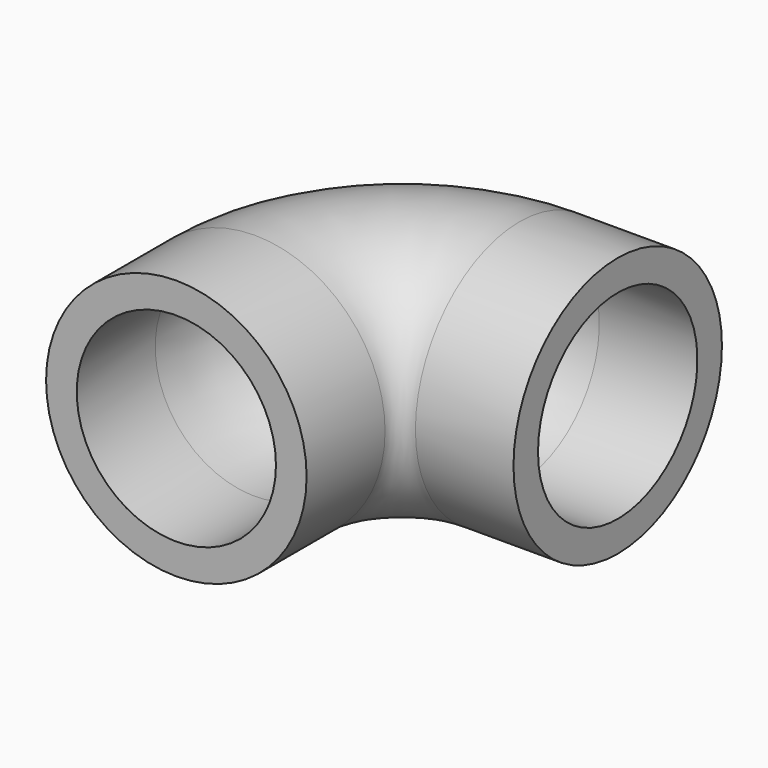
from build123d import *

# Parameters (mm, degrees)
F1_R = 13.49375
F3_T = -3.175


with BuildPart() as f2:
    # F2: sweep along a path in F0
    with BuildLine(Plane.XY) as f2_path:
        Line((0, 0), (0, 10.16))
        ThreePointArc((0, 10.16), (4.4636926547, 20.9363073453), (15.24, 25.4))
        Line((15.24, 25.4), (25.4, 25.4))
    # F1 (on Front) → F2 (sweep)
    with BuildSketch(Plane.XZ):
        Circle(F1_R)
    sweep(path=f2_path.line)

    # F3
    f3_openings = [f2.faces().sort_by_distance(p)[0] for p in [
        (0, 0, 0),
        (25.4, 25.4, 0),
    ]]
    offset(amount=F3_T, openings=f3_openings)


solid = f2.part
